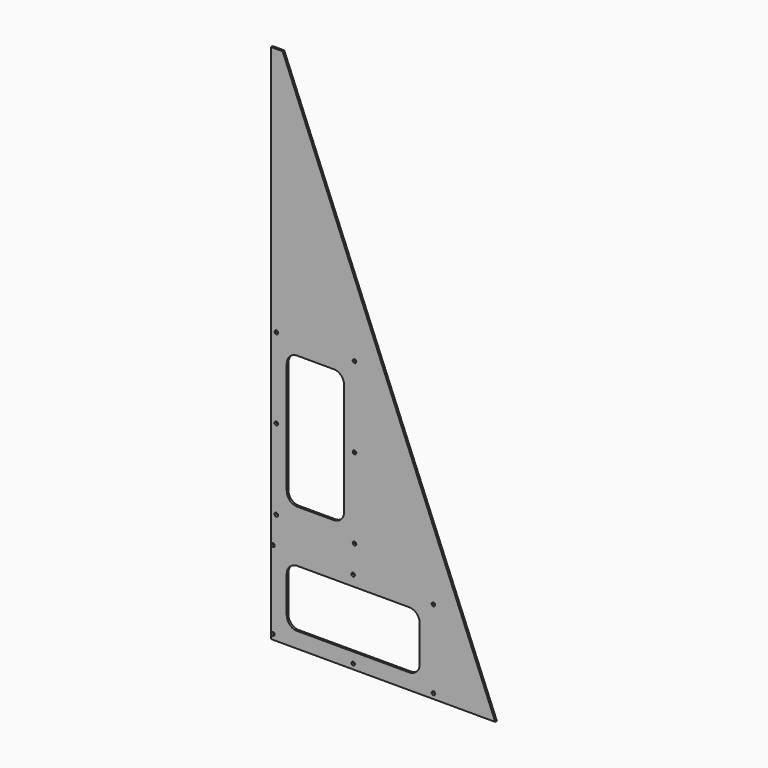
from build123d import *

# Parameters (mm, degrees)
F1_DEPTH = 2.54
F3_D     = 4.318


with BuildPart() as f1:
    # F0 (on Front) → F1 (new body)
    with BuildSketch(Plane.XZ):
        Polygon((0, 635), (0, 0), (273.05, 0), (14.0198087095, 635), align=None)
        with BuildLine():
            Line((168.275, 19.05), (31.75, 19.05))
            ThreePointArc((31.75, 19.05), (22.7697438789, 22.7697438789), (19.05, 31.75))
            Line((19.05, 31.75), (19.05, 76.2))
            ThreePointArc((19.05, 76.2), (22.7697438789, 85.1802561211), (31.75, 88.9))
            Line((31.75, 88.9), (168.275, 88.9))
            ThreePointArc((168.275, 88.9), (177.2552561211, 85.1802561211), (180.975, 76.2))
            Line((180.975, 76.2), (180.975, 31.75))
            ThreePointArc((180.975, 31.75), (177.2552561211, 22.7697438789), (168.275, 19.05))
        make_face(mode=Mode.SUBTRACT)
        with BuildLine():
            Line((76.2, 152.4), (31.75, 152.4))
            ThreePointArc((31.75, 152.4), (22.7697438789, 156.1197438789), (19.05, 165.1))
            Line((19.05, 165.1), (19.05, 301.625))
            ThreePointArc((19.05, 301.625), (22.7697438789, 310.6052561211), (31.75, 314.325))
            Line((31.75, 314.325), (76.2, 314.325))
            ThreePointArc((76.2, 314.325), (85.1802561211, 310.6052561211), (88.9, 301.625))
            Line((88.9, 301.625), (88.9, 165.1))
            ThreePointArc((88.9, 165.1), (85.1802561211, 156.1197438789), (76.2, 152.4))
        make_face(mode=Mode.SUBTRACT)
    extrude(amount=F1_DEPTH)

    # F3 (through all)
    with Locations(Plane.XZ.offset(2.54)):
        with Locations((6.35, 331.1525), (101.6, 331.1525), (101.6, 233.3625), (6.35, 233.3625), (6.35, 135.5725), (101.6, 135.5725), (2.2225, 101.6), (2.2225, 6.35), (100.0125, 6.35), (100.0125, 101.6), (197.8025, 101.6), (197.8025, 6.35)):
            Hole(F3_D / 2)


solid = f1.part
